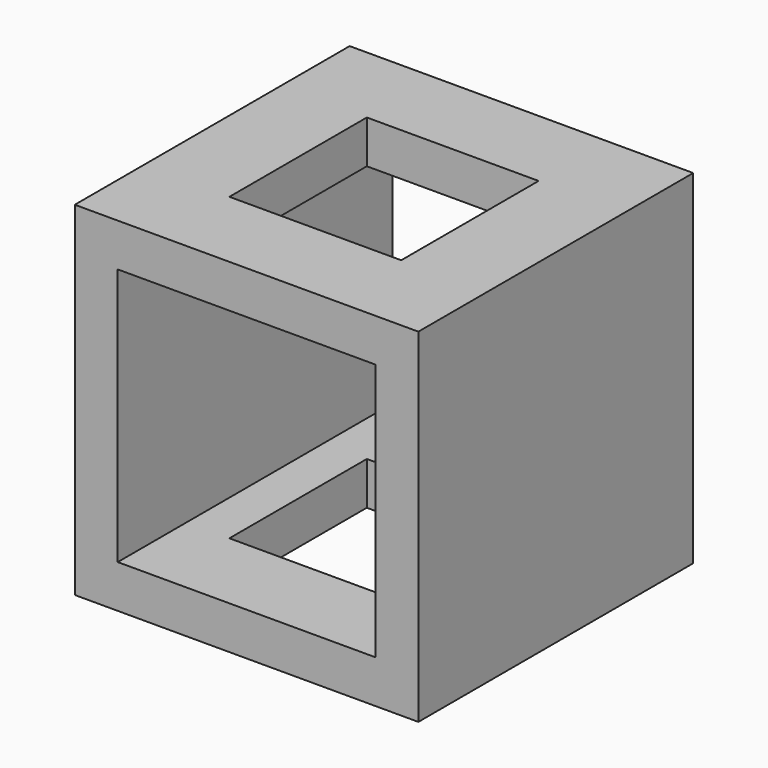
from build123d import *

# Parameters (mm, degrees)
F0_W     = 50.8
F0_H     = 50.8
F1_DEPTH = 50.8
F2_W     = 38.1
F2_H     = 38.1
F3_DEPTH = 50.801
F4_W     = 25.4
F4_H     = 25.4
F5_DEPTH = 50.801


with BuildPart() as f1:
    # F0 (on Front) → F1 (new body)
    with BuildSketch(Plane.XZ):
        with Locations((-73.563374, 19.488397)):
            Rectangle(F0_W, F0_H)
    extrude(amount=F1_DEPTH)

    # F2 (on face) → F3 (cut, through all)
    with BuildSketch(Plane.XZ.offset(50.8)):
        with Locations((-73.563374, 19.488397)):
            Rectangle(F2_W, F2_H)
    extrude(amount=-F3_DEPTH, mode=Mode.SUBTRACT)

    # F4 (on face) → F5 (cut, through all)
    with BuildSketch(Plane.XY.offset(44.888397)):
        with Locations((-73.563374, -25.4)):
            Rectangle(F4_W, F4_H)
    extrude(amount=-F5_DEPTH, mode=Mode.SUBTRACT)


solid = f1.part
